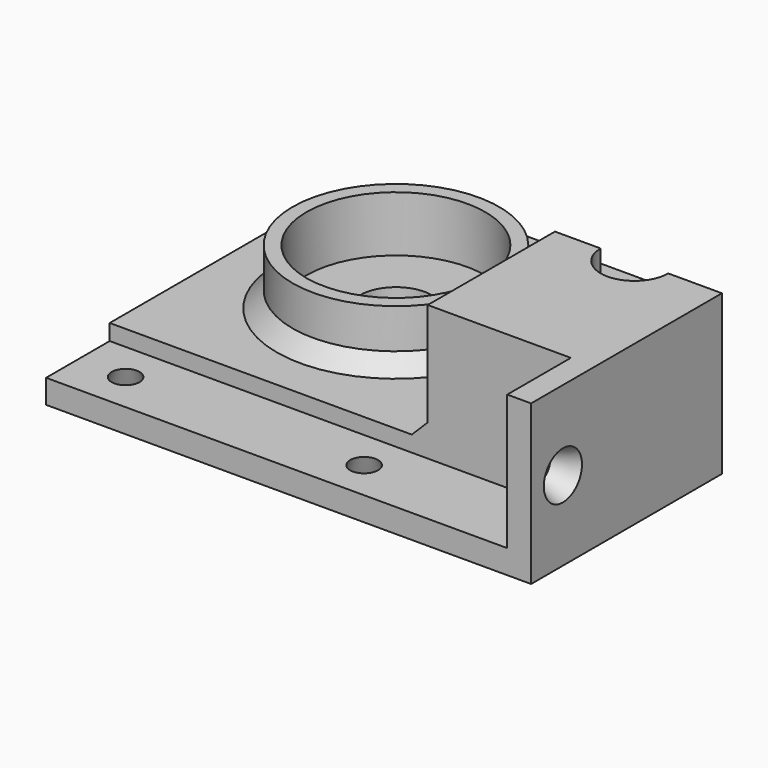
from build123d import *

# Parameters (mm, degrees)
CYLINDER029_R       = 11.25
CYLINDER029_DEPTH   = 7
CYLINDER030_R       = 13
CYLINDER030_DEPTH   = 7
BOX009_W            = 58
BOX009_H            = 10
BOX009_DEPTH        = 3
CONE005_PITCH_ANGLE = 90
CYLINDER028_R       = 6
CYLINDER028_DEPTH   = 4
CYLINDER027_R       = 8
CYLINDER027_DEPTH   = 4
PAD003_DEPTH        = 15
SKETCH004_R         = 4.5
PAD004_DEPTH        = 20
CHAMFER004_SIZE     = 2
CHAMFER005_SIZE     = 2
FILLET003_R         = 5


with BuildPart() as obj1:
    # Cylinder029 → Cylinder029 (new body)
    with BuildSketch(Plane.XY):
        Circle(CYLINDER029_R)
    extrude(amount=CYLINDER029_DEPTH)


with BuildPart() as cut037:
    # Cylinder030 → Cylinder030 (new body)
    with BuildSketch(Plane.XY):
        Circle(CYLINDER030_R)
    extrude(amount=CYLINDER030_DEPTH)

    # Cut037: cut obj1
    add(obj1.part, mode=Mode.SUBTRACT)


with BuildPart() as cut037_1:
    # Cut037 placement: moved
    add(cut037.part.moved(Location((41, 30, 5))))


with BuildPart() as obj2:
    # Box009 → Box009 (new body)
    with BuildSketch(Plane(origin=(3, 0, 3), x_dir=(1, 0, 0), z_dir=(0, 0, 1))):
        with Locations((29, 5)):
            Rectangle(BOX009_W, BOX009_H)
    extrude(amount=BOX009_DEPTH)


with BuildPart() as cone_forat_cargol005:
    # Cone004 → Cone004 (revolve)
    with BuildSketch(Plane(origin=(55, 5, 0), x_dir=(1, 0, 0), z_dir=(0, -1, 0))):
        Polygon((0, 0), (3, 0), (1.75, 3), (0, 3), align=None)
    revolve(axis=Axis((55, 5, 0), (0, 0, 1)))


with BuildPart() as cone_forat_cargol004:
    # Cone003 → Cone003 (revolve)
    with BuildSketch(Plane(origin=(25, 5, 0), x_dir=(1, 0, 0), z_dir=(0, -1, 0))):
        Polygon((0, 0), (3, 0), (1.75, 3), (0, 3), align=None)
    revolve(axis=Axis((25, 5, 0), (0, 0, 1)))


with BuildPart() as cone_forat_cargol006:
    # Cone005 → Cone005 (revolve)
    with BuildSketch(Plane.XZ):
        Polygon((0, 0), (3, 0), (1.75, 3), (0, 3), align=None)
    revolve(axis=Axis((0, 0, 0), (0, 0, 1)))


with BuildPart() as cone_forat_cargol006_1:
    # Cone005 pitch: moved
    add(cone_forat_cargol006.part.rotate(Axis((0, 0, 0), (0, 1, 0)), CONE005_PITCH_ANGLE))


with BuildPart() as cone_forat_cargol006_2:
    # Cone005 placement: moved
    add(cone_forat_cargol006_1.part.moved(Location((0, 5, 10))))


with BuildPart() as cyl_brida_int005:
    # Cylinder028 → Cylinder028 (new body)
    with BuildSketch(Plane.XY):
        Circle(CYLINDER028_R)
    extrude(amount=CYLINDER028_DEPTH)


with BuildPart() as cyl_brida_ext005:
    # Cylinder027 → Cylinder027 (new body)
    with BuildSketch(Plane.XY):
        Circle(CYLINDER027_R)
    extrude(amount=CYLINDER027_DEPTH)


with BuildPart() as obj3:
    # Cut036 base: copy of Cyl-brida-ext005
    add(cyl_brida_ext005.part)

    # Cut036: cut Cyl-brida-int005
    add(cyl_brida_int005.part, mode=Mode.SUBTRACT)


with BuildPart() as obj3_1:
    # Cut036 placement: moved
    add(obj3.part.moved(Location((10, 30, 12))))


with BuildPart() as obj4:
    # Cut035 base: copy of Cyl-brida-ext005
    add(cyl_brida_ext005.part)

    # Cut035: cut Cyl-brida-int005
    add(cyl_brida_int005.part, mode=Mode.SUBTRACT)


with BuildPart() as obj4_1:
    # Cut035 placement: moved
    add(obj4.part.moved(Location((10, 30, 4))))


with BuildPart() as obj5:
    # Sketch003 → Pad003 (new body)
    with BuildSketch(Plane.XY.offset(5)):
        Polygon((3, 10), (21, 10), (21, 50), (61, 50), (61, 0), (3, 0), align=None)
    extrude(amount=PAD003_DEPTH)


with BuildPart() as y_end_idler:
    # Sketch004 → Pad004 (new body)
    with BuildSketch(Plane.XY):
        with BuildLine():
            ThreePointArc((6.75, 30), (11, 25.75), (15.25, 30))
            Line((15.25, 30), (21, 30))
            Line((21, 30), (21, 50))
            Line((21, 50), (61, 50))
            Line((61, 50), (61, 0))
            Line((0, 0), (61, 0))
            Line((0, 30), (0, 0))
            Line((6.75, 30), (0, 30))
        make_face()
        with Locations((41, 30)):
            Circle(SKETCH004_R, mode=Mode.SUBTRACT)
    extrude(amount=PAD004_DEPTH)

    # Cut034: cut obj5
    add(obj5.part, mode=Mode.SUBTRACT)

    # Cut033: cut obj4
    add(obj4_1.part, mode=Mode.SUBTRACT)

    # Cut032: cut obj3
    add(obj3_1.part, mode=Mode.SUBTRACT)

    # Cut030: cut Cone-forat-cargol006
    add(cone_forat_cargol006_2.part, mode=Mode.SUBTRACT)

    # Cut029: cut Cone-forat-cargol004
    add(cone_forat_cargol004.part, mode=Mode.SUBTRACT)

    # Cut028: cut Cone-forat-cargol005
    add(cone_forat_cargol005.part, mode=Mode.SUBTRACT)

    # Cut031: cut obj2
    add(obj2.part, mode=Mode.SUBTRACT)

    # Fusion002: union Cut037
    add(cut037_1.part)

    # Chamfer004
    chamfer004_edges = [y_end_idler.edges().sort_by_distance(p)[0] for p in [
        (21, 20, 5),
    ]]
    chamfer(chamfer004_edges, length=CHAMFER004_SIZE)

    # Chamfer005
    chamfer005_edges = [y_end_idler.edges().sort_by_distance(p)[0] for p in [
        (28, 30, 5),
    ]]
    chamfer(chamfer005_edges, length=CHAMFER005_SIZE)

    # Fillet003
    fillet003_edges = [y_end_idler.edges().sort_by_distance(p)[0] for p in [
        (61, 50, 2.5),
        (21, 50, 2.5),
    ]]
    fillet(fillet003_edges, radius=FILLET003_R)


with BuildPart() as part_mirroring001:
    # Part__Mirroring001: instance of y-end-idler
    add(y_end_idler.part.mirror(Plane(origin=(0, 0, 0), x_dir=(0, -1, 0), z_dir=(1, 0, 0))))


solid = part_mirroring001.part
